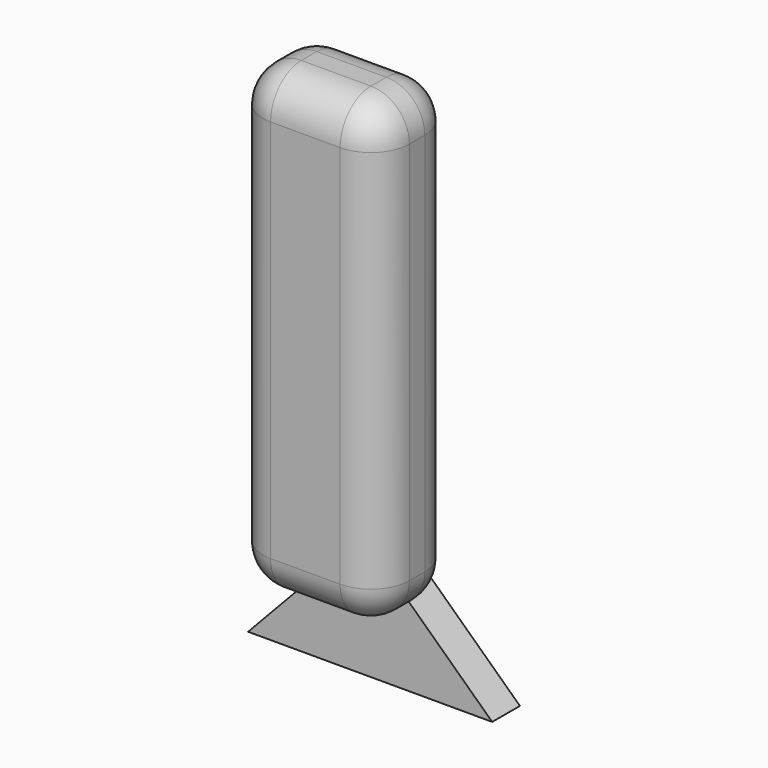
from build123d import *

# Parameters (mm, degrees)
F0_W     = 19.335749
F0_H     = 60.896502
F1_DEPTH = 12.7
F2_R     = 5.08
F4_DEPTH = 2.286


with BuildPart() as f1:
    # F0 (on Front) → F1 (new body)
    with BuildSketch(Plane.XZ):
        with Locations((0.555625, 24.669751)):
            Rectangle(F0_W, F0_H)
    extrude(amount=F1_DEPTH)

    # F2
    f2_edges = [f1.edges().sort_by_distance(p)[0] for p in [
        (-9.11225, -6.35, 55.118002),
        (-9.11225, -6.35, -5.7785),
        (-9.11225, 0, 24.669751),
        (-9.11225, -12.7, 24.669751),
        (10.223499, -6.35, -5.7785),
        (10.223499, -6.35, 55.118002),
        (10.223499, 0, 24.669751),
        (10.223499, -12.7, 24.669751),
        (0.555625, 0, -5.7785),
        (0.555625, -12.7, -5.7785),
        (0.555625, 0, 55.118002),
        (0.555625, -12.7, 55.118002),
    ]]
    fillet(f2_edges, radius=F2_R)


with BuildPart() as f4:
    # F3 (on Front) → F4 (new body, symmetric)
    with BuildSketch(Plane.XZ):
        Polygon((16.891001, -17.11325), (5.11175, -6.00075), (-4.425785, -5.549217), (-15.33525, -17.11325), align=None)
    extrude(amount=F4_DEPTH, both=True)


solid = Compound([f1.part, f4.part])
